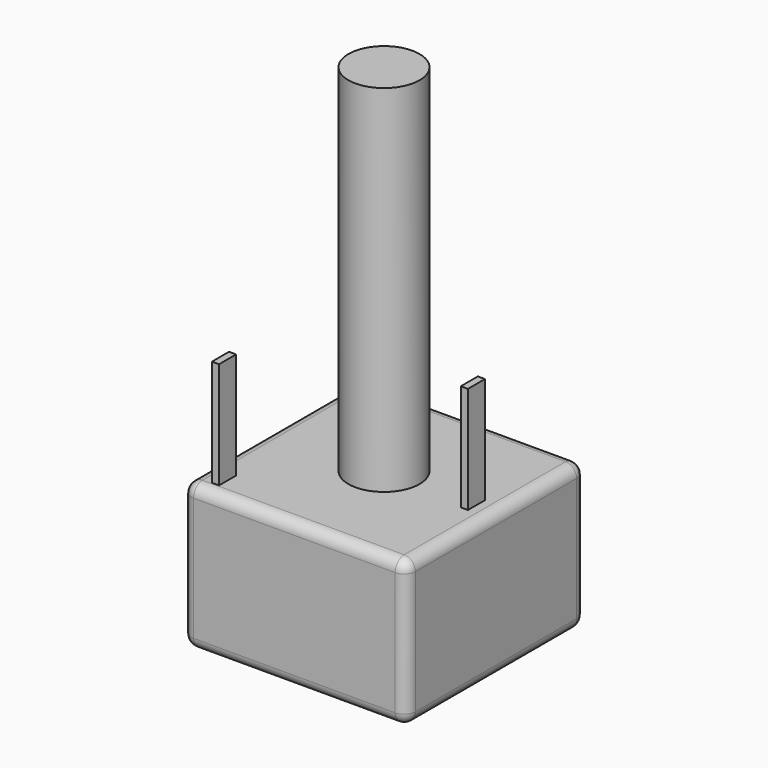
from build123d import *

# Parameters (mm, degrees)
SKETCH003_W       = 0.2
SKETCH003_H       = 0.6
PAD002_DEPTH      = 1
PAD002_DEPTH_BACK = 4.3
SKETCH004_R       = 1
SKETCH004_W       = 1.5
SKETCH004_H       = 0.4
PAD003_DEPTH      = 4.1
SKETCH006_R       = 1
PAD005_DEPTH      = 10
SKETCH_W          = 6.3
SKETCH_H          = 6.3
SKETCH_R          = 1
PAD_DEPTH         = 4.1
FILLET_R          = 0.315


with BuildPart() as pad002:
    # Sketch003 → Pad002 (new body, two sides)
    with BuildSketch(Plane(origin=(0, 5, 0), x_dir=(1, 0, 0), z_dir=(0, 0, 1))) as pad002_sk:
        Rectangle(SKETCH003_W, SKETCH003_H)
        with Locations((5, -2.5)):
            Rectangle(SKETCH003_W, SKETCH003_H)
        with Locations((0, -5)):
            Rectangle(SKETCH003_W, SKETCH003_H)
    extrude(amount=PAD002_DEPTH)
    extrude(pad002_sk.sketch, amount=-PAD002_DEPTH_BACK)


with BuildPart() as pad003:
    # Sketch004 → Pad003 (new body)
    with BuildSketch(Plane(origin=(0, 5, -2), x_dir=(1, 0, 0), z_dir=(0, 0, 1))):
        with Locations((2.5, -2.5)):
            Circle(SKETCH004_R)
        with Locations((2.5, -2.5)):
            Rectangle(SKETCH004_W, SKETCH004_H, mode=Mode.SUBTRACT)
    extrude(amount=-PAD003_DEPTH)


with BuildPart() as pad005:
    # Sketch006 → Pad005 (new body)
    with BuildSketch(Plane(origin=(0, 5, -2), x_dir=(1, 0, 0), z_dir=(0, 0, 1))):
        with Locations((2.5, -2.5)):
            Circle(SKETCH006_R)
    extrude(amount=PAD005_DEPTH)


with BuildPart() as fillet_body:
    # Sketch → Pad (new body)
    with BuildSketch(Plane(origin=(0, 5, -2), x_dir=(1, 0, 0), z_dir=(0, 0, 1))):
        with Locations((2.5, -2.5)):
            Rectangle(SKETCH_W, SKETCH_H)
        with Locations((2.5, -2.5)):
            Circle(SKETCH_R, mode=Mode.SUBTRACT)
    extrude(amount=-PAD_DEPTH)

    # Fillet
    fillet_edges = [fillet_body.edges().sort_by_distance(p)[0] for p in [
        (2.5, -0.65, -2),
        (-0.65, 2.5, -2),
        (2.5, 5.65, -2),
        (5.65, 2.5, -2),
        (5.65, 5.65, -4.05),
        (5.65, -0.65, -4.05),
        (-0.65, -0.65, -4.05),
        (2.5, -0.65, -6.1),
        (5.65, 2.5, -6.1),
        (-0.65, 2.5, -6.1),
        (2.5, 5.65, -6.1),
        (-0.65, 5.65, -4.05),
    ]]
    fillet(fillet_edges, radius=FILLET_R)


solid = Compound([pad002.part, pad003.part, pad005.part, fillet_body.part])
